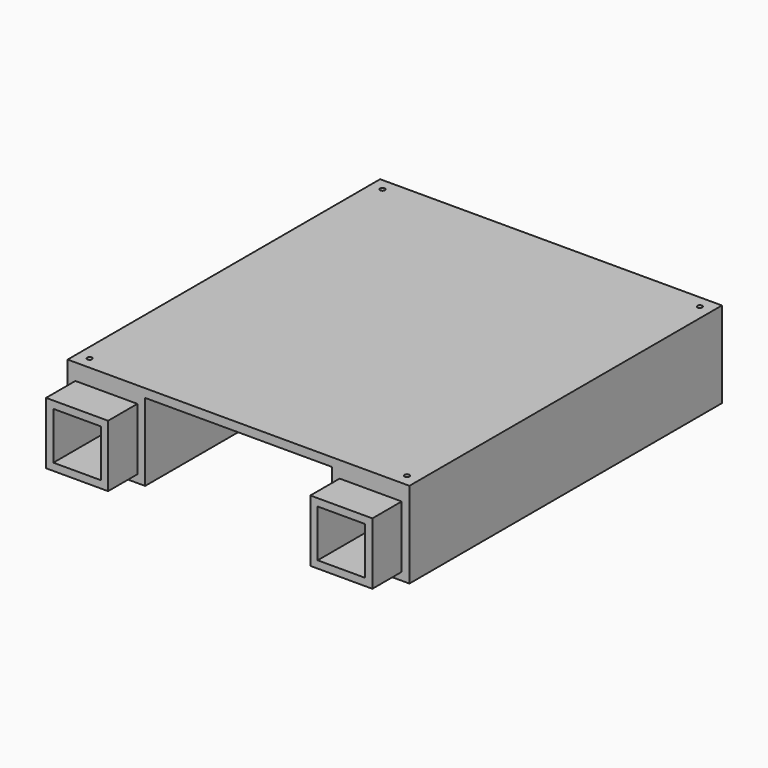
from build123d import *

# Parameters (mm, degrees)
F0_W     = 140
F0_H     = 160
F1_DEPTH = 3.5
F2_W     = 31.75
F2_H     = 31.75
F2_W_2   = 25.4
F2_H_2   = 25.4
F3_DEPTH = 160
F4_W     = 25.4
F4_H     = 25.4
F4_W_2   = 19.4
F4_H_2   = 19.4
F5_DEPTH = 15
F6_R     = 3
F7_DEPTH = 4
F8_R     = 1
F9_DEPTH = 5


with BuildPart() as f1:
    # F0 (on Top) → F1 (new body)
    with BuildSketch(Plane.XY):
        with Locations((-1.276044, 37.026612)):
            Rectangle(F0_W, F0_H)
    extrude(amount=F1_DEPTH)

    # F2 (on face) → F3 (join)
    with BuildSketch(Plane.XZ.offset(42.973388)):
        with Locations((-55.401044, -15.875)):
            Rectangle(F2_W, F2_H)
        with Locations((-55.401044, -15.875)):
            Rectangle(F2_W_2, F2_H_2, mode=Mode.SUBTRACT)
        with Locations((52.848956, -15.875)):
            Rectangle(F2_W, F2_H)
        with Locations((52.848956, -15.875)):
            Rectangle(F2_W_2, F2_H_2, mode=Mode.SUBTRACT)
    extrude(amount=-F3_DEPTH)

    # F4 (on face) → F5 (join, symmetric)
    with BuildSketch(Plane.XZ.offset(42.973388)):
        with Locations((-55.401044, -15.875)):
            Rectangle(F4_W, F4_H)
        with Locations((-55.401044, -15.875)):
            Rectangle(F4_W_2, F4_H_2, mode=Mode.SUBTRACT)
        with Locations((52.848956, -15.875)):
            Rectangle(F4_W, F4_H)
        with Locations((52.848956, -15.875)):
            Rectangle(F4_W_2, F4_H_2, mode=Mode.SUBTRACT)
    extrude(amount=F5_DEPTH, both=True)

    # F6 (on face) → F7 (cut)
    with BuildSketch(Plane.YZ.offset(-39.526044)):
        with Locations((37.026612, -21.75)):
            Circle(F6_R)
    extrude(amount=-F7_DEPTH, mode=Mode.SUBTRACT)

    # F8 (on face) → F9 (cut)
    with BuildSketch(Plane.XY.offset(3.5)):
        with Locations((-66.276044, 112.026612)):
            Circle(F8_R)
        with Locations((63.723956, 112.026612)):
            Circle(F8_R)
        with Locations((63.723956, -37.973388)):
            Circle(F8_R)
        with Locations((-66.276044, -37.973388)):
            Circle(F8_R)
    extrude(amount=-F9_DEPTH, mode=Mode.SUBTRACT)


solid = f1.part
